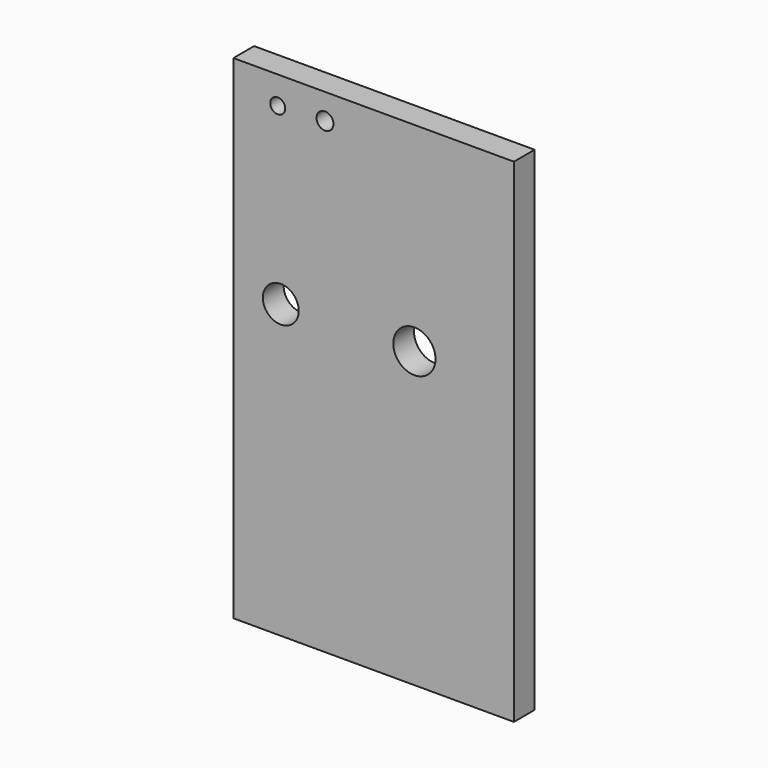
from build123d import *

# Parameters (mm, degrees)
F0_W     = 68.770774
F0_H     = 120.91565
F0_R     = 4.399378
F0_R_2   = 1.833914
F0_R_3   = 2.077282
F0_R_4   = 5.168712
F1_DEPTH = 3.175


with BuildPart() as f1:
    # F0 (on Front) → F1 (new body, symmetric)
    with BuildSketch(Plane.XZ):
        with Locations((0, -2.141218)):
            Rectangle(F0_W, F0_H)
        with Locations((-22.759607, 8.957916)):
            Circle(F0_R, mode=Mode.SUBTRACT)
        with Locations((-23.515331, 51.530298)):
            Circle(F0_R_2, mode=Mode.SUBTRACT)
        with Locations((-11.92758, 52.034114)):
            Circle(F0_R_3, mode=Mode.SUBTRACT)
        with Locations((9.988382, 9.461731)):
            Circle(F0_R_4, mode=Mode.SUBTRACT)
    extrude(amount=F1_DEPTH, both=True)


solid = f1.part
